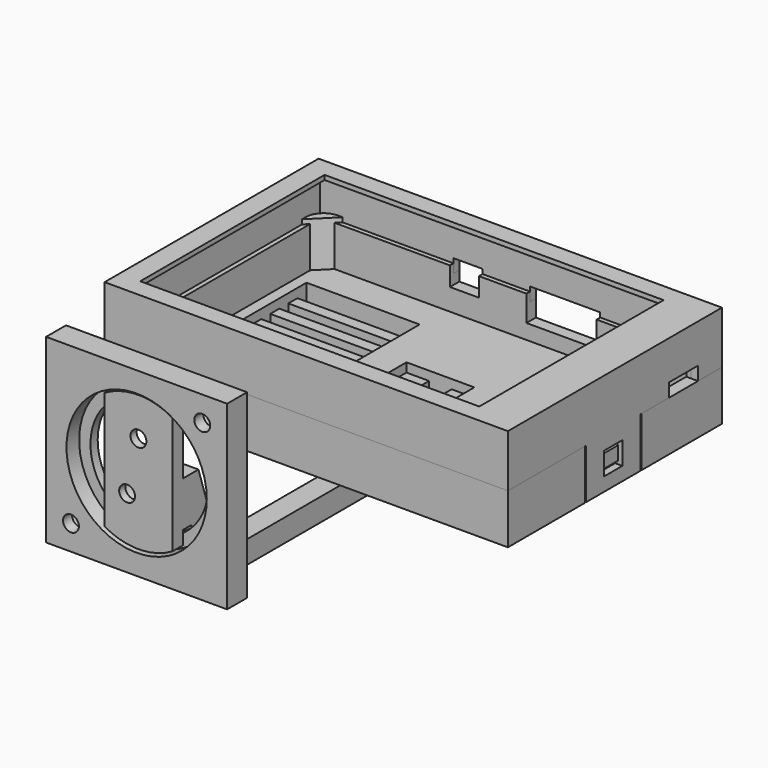
from build123d import *

# Parameters (mm, degrees)
SKETCH_W        = 89.1
SKETCH_H        = 59.1
SKETCH_W_2      = 85.9
SKETCH_H_2      = 55.9
PAD_DEPTH       = 7.6
SKETCH002_W     = 89.1
SKETCH002_H     = 59.1
SKETCH002_W_2   = 74.9
SKETCH002_H_2   = 50.9
PAD001_DEPTH    = 1
SKETCH004_W     = 9.5
SKETCH004_H     = 1.6
SKETCH004_W_2   = 10.5
PAD003_DEPTH    = 3
SKETCH032_W     = 1.6
SKETCH032_H     = 15
PAD019_DEPTH    = 11
SKETCH033_W     = 5
SKETCH033_H     = 5
POCKET008_DEPTH = 89.101
SKETCH009_W     = 89.1
SKETCH009_H     = 59.1
PAD007_DEPTH    = 4
SKETCH010_W     = 89.1
SKETCH010_H     = 59.1
PAD008_DEPTH    = 9
PAD009_DEPTH    = 1
SKETCH014_W     = 89.1
SKETCH014_H     = 59.1
POCKET_DEPTH    = 3
SKETCH015_W     = 9.5
SKETCH015_H     = 4
SKETCH015_W_2   = 15.5
SKETCH015_H_2   = 6.7
SKETCH015_W_3   = 6.4
SKETCH015_H_3   = 5.2
POCKET001_DEPTH = 5
SKETCH016_W     = 8
SKETCH016_H     = 3
POCKET002_DEPTH = 5
SKETCH017_W     = 6
SKETCH017_H     = 5.7
SKETCH017_W_2   = 11
POCKET003_DEPTH = 14.001
SKETCH018_W     = 25
SKETCH018_H     = 2.5
POCKET004_DEPTH = 14.001
SKETCH019_W     = 25
SKETCH019_H     = 37.5
SKETCH019_W_2   = 15
SKETCH019_H_2   = 15
POCKET005_DEPTH = 2
POCKET009_DEPTH = 1.6
POCKET010_DEPTH = 1.6
SKETCH036_W     = 5
SKETCH036_H     = 5
SKETCH037_W     = 4
SKETCH037_H     = 3
SKETCH038_W     = 5
SKETCH038_H     = 5
SKETCH039_W     = 4
SKETCH039_H     = 3
PAD011_DEPTH    = 5
SKETCH021_W     = 2
SKETCH021_H     = 10
PAD012_DEPTH    = 10
PAD013_DEPTH    = 2.2
PAD014_DEPTH    = 2
SKETCH024_W     = 15
SKETCH024_H     = 10
PAD015_DEPTH    = 2.2
PAD016_DEPTH    = 3
SKETCH026_R     = 1.75
HOLE_DEPTH      = 25
SKETCH027_R     = 4
POCKET006_DEPTH = 5.5
SKETCH028_W     = 40
SKETCH028_H     = 40
SKETCH028_R     = 13
PAD017_DEPTH    = 2
SKETCH029_W     = 40
SKETCH029_H     = 40
SKETCH029_R     = 15.5
PAD018_DEPTH    = 3.5
SKETCH030_R     = 4
POCKET007_DEPTH = 3
SKETCH031_R     = 1.75
HOLE001_DEPTH   = 25


with BuildPart() as front:
    # Sketch → Pad (new body)
    with BuildSketch(Plane.XY):
        with Locations((42.95, 27.95)):
            Rectangle(SKETCH_W, SKETCH_H)
        with Locations((42.95, 27.95)):
            Rectangle(SKETCH_W_2, SKETCH_H_2, mode=Mode.SUBTRACT)
    extrude(amount=PAD_DEPTH)

    # Sketch002 (on Face10 of Pad) → Pad001 (join)
    with BuildSketch(Plane.XY.offset(7.6)):
        with Locations((42.95, 27.95)):
            Rectangle(SKETCH002_W, SKETCH002_H)
        with Locations((40.45, 27.95)):
            Rectangle(SKETCH002_W_2, SKETCH002_H_2, mode=Mode.SUBTRACT)
    extrude(amount=PAD001_DEPTH)

    # Sketch004 (on Face4 of Pad001) → Pad003 (join)
    with BuildSketch(Plane(origin=(0, 0, 0), x_dir=(1, 0, 0), z_dir=(0, 0, -1))):
        with Locations((66.65, -56.7)):
            Rectangle(SKETCH004_W, SKETCH004_H)
        with Locations((41.15, -56.7)):
            Rectangle(SKETCH004_W_2, SKETCH004_H)
        Polygon((29.5, -57.5), (29.5, -55.9), (0, -55.9), (0, 0), (85.9, 0), (85.9, -42.9), (87.5, -42.9), (87.5, 1.6), (-1.6, 1.6), (-1.6, -57.5), align=None)
        Polygon((80.9, -57.5), (87.5, -57.5), (87.5, -50.9), (85.9, -50.9), (85.9, -55.9), (80.9, -55.9), align=None)
    extrude(amount=PAD003_DEPTH)

    # Sketch032 (on Face17 of Pad003) → Pad019 (join)
    with BuildSketch(Plane(origin=(0, 0, -3), x_dir=(1, 0, 0), z_dir=(0, 0, -1))):
        with Locations((-0.8, -27.5)):
            Rectangle(SKETCH032_W, SKETCH032_H)
        with Locations((86.7, -27.5)):
            Rectangle(SKETCH032_W, SKETCH032_H)
    extrude(amount=PAD019_DEPTH)

    # Sketch033 (on Face49 of Pad019) → Pocket008 (cut, through all)
    with BuildSketch(Plane.YZ.offset(87.5)):
        with Locations((27.5, -8.5)):
            Rectangle(SKETCH033_W, SKETCH033_H)
    extrude(amount=-POCKET008_DEPTH, mode=Mode.SUBTRACT)


with BuildPart() as back:
    # Sketch009 → Pad007 (new body)
    with BuildSketch(Plane.XY.offset(-14)):
        with Locations((42.95, 27.95)):
            Rectangle(SKETCH009_W, SKETCH009_H)
    extrude(amount=PAD007_DEPTH)

    # Sketch010 (on Face6 of Pad007) → Pad008 (join)
    with BuildSketch(Plane.XY.offset(-10)):
        with Locations((42.95, 27.95)):
            Rectangle(SKETCH010_W, SKETCH010_H)
        Polygon((4, 1), (81.9, 1), (84.9, 4), (84.9, 51.9), (81.9, 54.9), (4, 54.9), (1, 51.9), (1, 4), align=None, mode=Mode.SUBTRACT)
    extrude(amount=PAD008_DEPTH)

    # Sketch011 (on Face9 of Pad008) → Pad009 (join)
    with BuildSketch(Plane.XY.offset(-1)):
        Polygon((85.9, 55.9), (85.9, 50.9), (80.9, 55.9), align=None)
        Polygon((0, 55.9), (5, 55.9), (0, 50.9), align=None)
        Polygon((5, 0), (0, 0), (0, 5), align=None)
        Polygon((85.9, 0), (80.9, 0), (85.9, 5), align=None)
    extrude(amount=PAD009_DEPTH)

    # Sketch014 (on Face33 of Pad009) → Pocket (cut)
    with BuildSketch(Plane.XY):
        with Locations((42.95, 27.95)):
            Rectangle(SKETCH014_W, SKETCH014_H)
        with BuildLine():
            Line((0, 51.9), (0, 4))
            ThreePointArc((0, 4), (1.171573, 1.171573), (4, 0))
            Line((4, 0), (81.9, 0))
            ThreePointArc((81.9, 0), (84.728427, 1.171573), (85.9, 4))
            Line((85.9, 4), (85.9, 51.9))
            ThreePointArc((85.9, 51.9), (84.728427, 54.728427), (81.9, 55.9))
            Line((81.9, 55.9), (4, 55.9))
            ThreePointArc((4, 55.9), (1.171573, 54.728427), (0, 51.9))
        make_face(mode=Mode.SUBTRACT)
    extrude(amount=-POCKET_DEPTH, mode=Mode.SUBTRACT)

    # Sketch015 (on Face5 of Pocket) → Pocket001 (cut)
    with BuildSketch(Plane(origin=(0, 57.5, 0), x_dir=(-1, 0, 0), z_dir=(0, 1, 0))):
        with Locations((-76.15, -2)):
            Rectangle(SKETCH015_W, SKETCH015_H)
        with Locations((-54.15, -3.35)):
            Rectangle(SKETCH015_W_2, SKETCH015_H_2)
        with Locations((-32.7, -2.6)):
            Rectangle(SKETCH015_W_3, SKETCH015_H_3)
    extrude(amount=-POCKET001_DEPTH, mode=Mode.SUBTRACT)

    # Sketch016 (on Face8 of Pocket001) → Pocket002 (cut)
    with BuildSketch(Plane.YZ.offset(87.5)):
        with Locations((46.9, -1.5)):
            Rectangle(SKETCH016_W, SKETCH016_H)
    extrude(amount=-POCKET002_DEPTH, mode=Mode.SUBTRACT)

    # Sketch017 (on Face4 of Pocket002) → Pocket003 (cut, through all)
    with BuildSketch(Plane(origin=(0, 0, -14), x_dir=(1, 0, 0), z_dir=(0, 0, -1))):
        with Locations((76.7, -2.85)):
            Rectangle(SKETCH017_W, SKETCH017_H)
        with Locations((51.2, -2.85)):
            Rectangle(SKETCH017_W_2, SKETCH017_H)
    extrude(amount=-POCKET003_DEPTH, mode=Mode.SUBTRACT)

    # Sketch018 (on Face4 of Pocket003) → Pocket004 (cut, through all)
    with BuildSketch(Plane(origin=(0, 0, -14), x_dir=(1, 0, 0), z_dir=(0, 0, -1))):
        with Locations((15.9, -11.65)):
            Rectangle(SKETCH018_W, SKETCH018_H)
        with Locations((15.9, -16.65)):
            Rectangle(SKETCH018_W, SKETCH018_H)
        with Locations((15.9, -21.65)):
            Rectangle(SKETCH018_W, SKETCH018_H)
        with Locations((15.9, -26.65)):
            Rectangle(SKETCH018_W, SKETCH018_H)
        with Locations((15.9, -31.65)):
            Rectangle(SKETCH018_W, SKETCH018_H)
        with Locations((15.9, -36.65)):
            Rectangle(SKETCH018_W, SKETCH018_H)
        with Locations((15.9, -41.65)):
            Rectangle(SKETCH018_W, SKETCH018_H)
        with Locations((15.9, -46.65)):
            Rectangle(SKETCH018_W, SKETCH018_H)
        with Locations((70, -11.65)):
            Rectangle(SKETCH018_W, SKETCH018_H)
        with Locations((70, -16.65)):
            Rectangle(SKETCH018_W, SKETCH018_H)
        with Locations((70, -21.65)):
            Rectangle(SKETCH018_W, SKETCH018_H)
        with Locations((70, -26.65)):
            Rectangle(SKETCH018_W, SKETCH018_H)
        with Locations((70, -31.65)):
            Rectangle(SKETCH018_W, SKETCH018_H)
        with Locations((70, -36.65)):
            Rectangle(SKETCH018_W, SKETCH018_H)
        with Locations((70, -41.65)):
            Rectangle(SKETCH018_W, SKETCH018_H)
        with Locations((70, -46.65)):
            Rectangle(SKETCH018_W, SKETCH018_H)
        Polygon((40.45, -25.45), (35.45, -25.45), (35.45, -30.45), (40.45, -30.45), (40.45, -35.45), (45.45, -35.45), (45.45, -30.45), (50.45, -30.45), (50.45, -25.45), (45.45, -25.45), (45.45, -20.45), (40.45, -20.45), align=None)
    extrude(amount=-POCKET004_DEPTH, mode=Mode.SUBTRACT)

    # Sketch019 (on Face111 of Pocket004) → Pocket005 (cut)
    with BuildSketch(Plane.XY.offset(-10)):
        with Locations((15.9, 29.15)):
            Rectangle(SKETCH019_W, SKETCH019_H)
        with Locations((70, 29.15)):
            Rectangle(SKETCH019_W, SKETCH019_H)
        with Locations((42.95, 27.95)):
            Rectangle(SKETCH019_W_2, SKETCH019_H_2)
    extrude(amount=-POCKET005_DEPTH, mode=Mode.SUBTRACT)

    # Sketch034 (on Face8 of Pocket005) → Pocket009 (cut)
    with BuildSketch(Plane.YZ.offset(87.5)):
        Polygon((35.3, -3), (35.3, -14), (19.7, -14), (19.7, -3), (20, -3), (35, -3), align=None)
    extrude(amount=-POCKET009_DEPTH, mode=Mode.SUBTRACT)

    # Sketch035 (on Face7 of Pocket009) → Pocket010 (cut)
    with BuildSketch(Plane(origin=(-1.6, 0, 0), x_dir=(0, -1, 0), z_dir=(-1, 0, 0))):
        Polygon((-19.7, -3), (-19.7, -14), (-35.3, -14), (-35.3, -3), (-35, -3), (-20, -3), align=None)
    extrude(amount=-POCKET010_DEPTH, mode=Mode.SUBTRACT)

    # Sketch036 (on Face14 of Pocket010) → AdditiveLoft section 0
    with BuildSketch(Plane(origin=(0, 0, 0), x_dir=(0, -1, 0), z_dir=(-1, 0, 0))):
        with Locations((-27.5, -8.5)):
            Rectangle(SKETCH036_W, SKETCH036_H)
    # Sketch037 (on Face14 of Pocket010) → AdditiveLoft section 1
    with BuildSketch(Plane(origin=(-1, 0, 0), x_dir=(0, -1, 0), z_dir=(-1, 0, 0))):
        with Locations((-27.5, -8.5)):
            Rectangle(SKETCH037_W, SKETCH037_H)
    loft()

    # Sketch038 (on Face13 of AdditiveLoft) → AdditiveLoft001 section 0
    with BuildSketch(Plane.YZ.offset(85.9)):
        with Locations((27.5, -8.5)):
            Rectangle(SKETCH038_W, SKETCH038_H)
    # Sketch039 (on Face13 of AdditiveLoft) → AdditiveLoft001 section 1
    with BuildSketch(Plane.YZ.offset(86.9)):
        with Locations((27.5, -8.5)):
            Rectangle(SKETCH039_W, SKETCH039_H)
    loft()


with BuildPart() as arm:
    # Sketch020 (on Face1 of ShapeBinder003) → Pad011 (new body)
    with BuildSketch(Plane(origin=(50.45, 0, 0), x_dir=(0, -1, 0), z_dir=(-1, 0, 0))):
        with BuildLine():
            Line((-25.45, -14), (-20.45, -14))
            Line((-20.45, -14), (30.920602, -14))
            ThreePointArc((30.920602, -14), (33.857772, -13.04636), (35.674541, -10.549212))
            Line((40.741713, 5), (35.674541, -10.549212))
            Line((42.741713, 5), (40.741713, 5))
            Line((42.741713, 5), (42.741713, 0))
            Line((42.741713, 0), (42.741713, -5))
            Line((40.428481, -12.098424), (42.741713, -5))
            ThreePointArc((30.920602, -19), (36.794943, -17.09272), (40.428481, -12.098424))
            Line((-20.45, -19), (30.920602, -19))
            Line((-25.45, -16), (-20.45, -19))
            Line((-25.45, -14), (-25.45, -16))
        make_face()
    extrude(amount=PAD011_DEPTH)

    # Sketch021 (on Face14 of Pad011) → Pad012 (join)
    with BuildSketch(Plane(origin=(45.45, 0, 0), x_dir=(0, -1, 0), z_dir=(-1, 0, 0))):
        Polygon((-25.45, -16), (-25.45, -14), (-20.45, -14), (-15.45, -14), (-15.45, -16), align=None)
        with Locations((41.741713, 0)):
            Rectangle(SKETCH021_W, SKETCH021_H)
    extrude(amount=PAD012_DEPTH)

    # Sketch022 (on Face2 of Pad012) → Pad013 (join)
    with BuildSketch(Plane.XY.offset(-14)):
        with BuildLine():
            Line((41.65, 25.25), (44.25, 25.25))
            ThreePointArc((45.25, 24.25), (44.957107, 24.957107), (44.25, 25.25))
            Line((45.25, 24.25), (45.25, 21.65))
            ThreePointArc((44.25, 20.65), (44.957107, 20.942893), (45.25, 21.65))
            Line((44.25, 20.65), (41.65, 20.65))
            ThreePointArc((40.65, 21.65), (40.942893, 20.942893), (41.65, 20.65))
            Line((40.65, 21.65), (40.65, 24.25))
            ThreePointArc((41.65, 25.25), (40.942893, 24.957107), (40.65, 24.25))
        make_face()
    extrude(amount=PAD013_DEPTH)

    # Sketch023 (on Face33 of Pad013) → Pad014 (join)
    with BuildSketch(Plane.XY.offset(-11.8)):
        with BuildLine():
            Line((36.65, 25.25), (49.25, 25.25))
            ThreePointArc((50.25, 24.25), (49.957107, 24.957107), (49.25, 25.25))
            Line((50.25, 24.25), (50.25, 21.65))
            ThreePointArc((49.25, 20.65), (49.957107, 20.942893), (50.25, 21.65))
            Line((49.25, 20.65), (36.65, 20.65))
            ThreePointArc((35.65, 21.65), (35.942893, 20.942893), (36.65, 20.65))
            Line((35.65, 21.65), (35.65, 24.25))
            ThreePointArc((36.65, 25.25), (35.942893, 24.957107), (35.65, 24.25))
        make_face()
    extrude(amount=PAD014_DEPTH)

    # Sketch024 (on Face43 of Pad014) → Pad015 (join)
    with BuildSketch(Plane.XZ.offset(42.741713)):
        with Locations((42.95, 0)):
            Rectangle(SKETCH024_W, SKETCH024_H)
    extrude(amount=PAD015_DEPTH)

    # Sketch025 (on Face44 of Pad015) → Pad016 (join)
    with BuildSketch(Plane.XZ.offset(44.941713)):
        with BuildLine():
            Line((50.45, 17.980762), (50.45, -8))
            ThreePointArc((35.45, -8), (42.95, -10.009619), (50.45, -8))
            Line((35.45, -8), (35.45, 17.980762))
            ThreePointArc((50.45, 17.980762), (42.95, 19.990381), (35.45, 17.980762))
        make_face()
    extrude(amount=PAD016_DEPTH)

    # Sketch026 (on Face26 of Pad016) → Hole (cut)
    with BuildSketch(Plane(origin=(0, -40.741713, 0), x_dir=(-1, 0, 0), z_dir=(0, 1, 0))):
        with Locations((-42.95, 11.490381)):
            Circle(SKETCH026_R)
        with Locations((-40.45, 0)):
            Circle(SKETCH026_R)
    extrude(amount=-HOLE_DEPTH, mode=Mode.SUBTRACT)

    # Sketch027 (on Face27 of Hole) → Pocket006 (cut)
    with BuildSketch(Plane(origin=(0, -40.741713, 0), x_dir=(-1, 0, 0), z_dir=(0, 1, 0))):
        with Locations((-42.95, 11.490381)):
            Circle(SKETCH027_R)
        with Locations((-40.45, 0)):
            Circle(SKETCH027_R)
    extrude(amount=-POCKET006_DEPTH, mode=Mode.SUBTRACT)


with BuildPart() as obj1:
    # Sketch028 (on Face1 of ShapeBinder004) → Pad017 (new body)
    with BuildSketch(Plane(origin=(0, -44.941713, 0), x_dir=(-1, 0, 0), z_dir=(0, 1, 0))):
        with Locations((-42.95, 4.990381)):
            Rectangle(SKETCH028_W, SKETCH028_H)
        with Locations((-42.95, 4.990381)):
            Circle(SKETCH028_R, mode=Mode.SUBTRACT)
    extrude(amount=PAD017_DEPTH)

    # Sketch029 (on Face6 of Pad017) → Pad018 (join)
    with BuildSketch(Plane.XZ.offset(44.941713)):
        with Locations((42.95, 4.990381)):
            Rectangle(SKETCH029_W, SKETCH029_H)
        with Locations((42.95, 4.990381)):
            Circle(SKETCH029_R, mode=Mode.SUBTRACT)
    extrude(amount=PAD018_DEPTH)

    # Sketch030 (on Face5 of Pad018) → Pocket007 (cut)
    with BuildSketch(Plane(origin=(0, -42.941713, 0), x_dir=(-1, 0, 0), z_dir=(0, 1, 0))):
        with Locations((-57.45, 19.490381)):
            Circle(SKETCH030_R)
        with Locations((-28.45, -9.509619)):
            Circle(SKETCH030_R)
    extrude(amount=-POCKET007_DEPTH, mode=Mode.SUBTRACT)

    # Sketch031 (on Face5 of Pocket007) → Hole001 (cut)
    with BuildSketch(Plane(origin=(0, -42.941713, 0), x_dir=(-1, 0, 0), z_dir=(0, 1, 0))):
        with Locations((-28.45, -9.509619)):
            Circle(SKETCH031_R)
        with Locations((-57.45, 19.490381)):
            Circle(SKETCH031_R)
    extrude(amount=-HOLE001_DEPTH, mode=Mode.SUBTRACT)


solid = Compound([front.part, back.part, arm.part, obj1.part])
